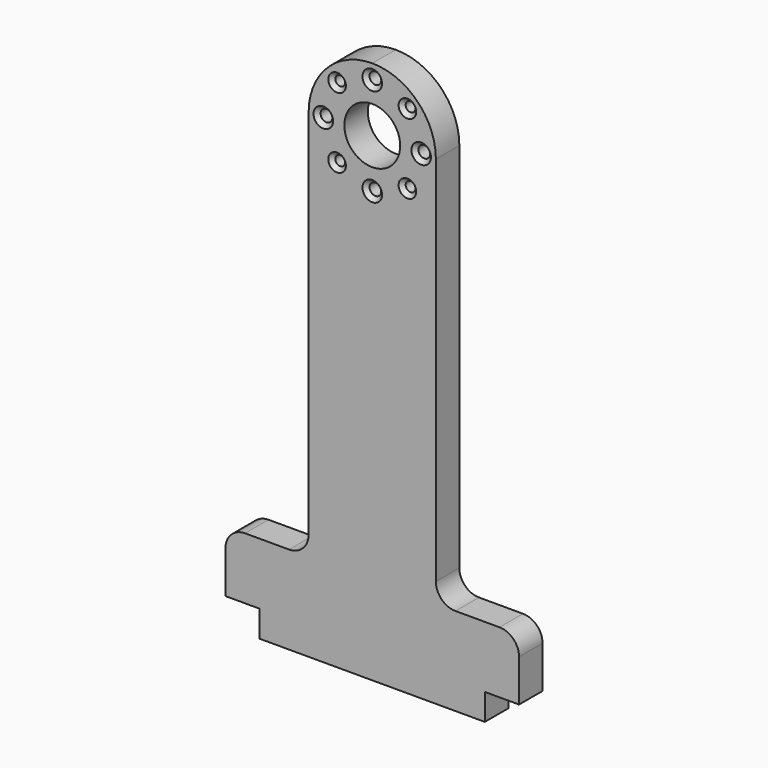
from build123d import *

# Parameters (mm, degrees)
F0_R           = 5
F0_R_2         = 6
F0_R_3         = 28.5
F1_DEPTH       = 30
F2_SIZE        = 4
F4_D           = 12
F4_DEPTH       = 35
F4_CSINK_D     = 13
F4_CSINK_ANGLE = 90
F4_TIP         = 3.6051637142


with BuildPart() as f1:
    # F0 (on Front) → F1 (new body)
    with BuildSketch(Plane.XZ):
        with BuildLine():
            Line((65, -380), (65, 0))
            ThreePointArc((65, 0), (45.9619407771, 45.9619407771), (0, 65))
            ThreePointArc((0, 65), (-45.9619407771, 45.9619407771), (-65, 0))
            Line((-65, 0), (-65, -380))
            ThreePointArc((-65, -380), (-70.8578643763, -394.1421356237), (-85, -400))
            Line((-85, -400), (-130, -400))
            ThreePointArc((-130, -400), (-144.1421356237, -405.8578643763), (-150, -420))
            Line((-150, -420), (-150, -463))
            Line((-150, -463), (-115, -463))
            Line((-115, -463), (-115, -490))
            Line((-115, -490), (115, -490))
            Line((115, -490), (115, -463))
            Line((115, -463), (150, -463))
            Line((150, -463), (150, -420))
            ThreePointArc((150, -420), (144.1421356237, -405.8578643763), (130, -400))
            Line((130, -400), (85, -400))
            ThreePointArc((85, -400), (70.8578643763, -394.1421356237), (65, -380))
        make_face()
        with Locations((-35.9210244843, -35.9210244843)):
            Circle(F0_R, mode=Mode.SUBTRACT)
        with Locations((-50, 0)):
            Circle(F0_R_2, mode=Mode.SUBTRACT)
        with Locations((-35.9210244843, 35.9210244843)):
            Circle(F0_R, mode=Mode.SUBTRACT)
        with Locations((0, -50)):
            Circle(F0_R_2, mode=Mode.SUBTRACT)
        with Locations((35.9210244843, -35.9210244843)):
            Circle(F0_R, mode=Mode.SUBTRACT)
        Circle(F0_R_3, mode=Mode.SUBTRACT)
        with Locations((0, 50)):
            Circle(F0_R_2, mode=Mode.SUBTRACT)
        with Locations((35.9210244843, 35.9210244843)):
            Circle(F0_R, mode=Mode.SUBTRACT)
        with Locations((50, 0)):
            Circle(F0_R_2, mode=Mode.SUBTRACT)
    extrude(amount=F1_DEPTH)

    # F2
    f2_edges = [f1.edges().sort_by_distance(p)[0] for p in [
        (-40.921024, -30, 35.921024),
        (-6, -30, 50),
        (30.921024, -30, 35.921024),
        (44, -30, 0),
        (30.921024, -30, -35.921024),
        (-6, -30, -50),
        (-40.921024, -30, -35.921024),
        (-56, -30, 0),
    ]]
    chamfer(f2_edges, length=F2_SIZE)

    # F4
    with Locations(Plane(origin=(0, 0, -463), x_dir=(1, 0, 0), z_dir=(0, 0, -1))):
        with Locations((-140, 15), (140, 15)):
            CounterSinkHole(F4_D / 2, F4_CSINK_D / 2, depth=F4_DEPTH, counter_sink_angle=F4_CSINK_ANGLE)
            with Locations((0, 0, -(F4_DEPTH + F4_TIP / 2))):  # 118° drill point
                Cone(0, F4_D / 2, F4_TIP, mode=Mode.SUBTRACT)


solid = f1.part
